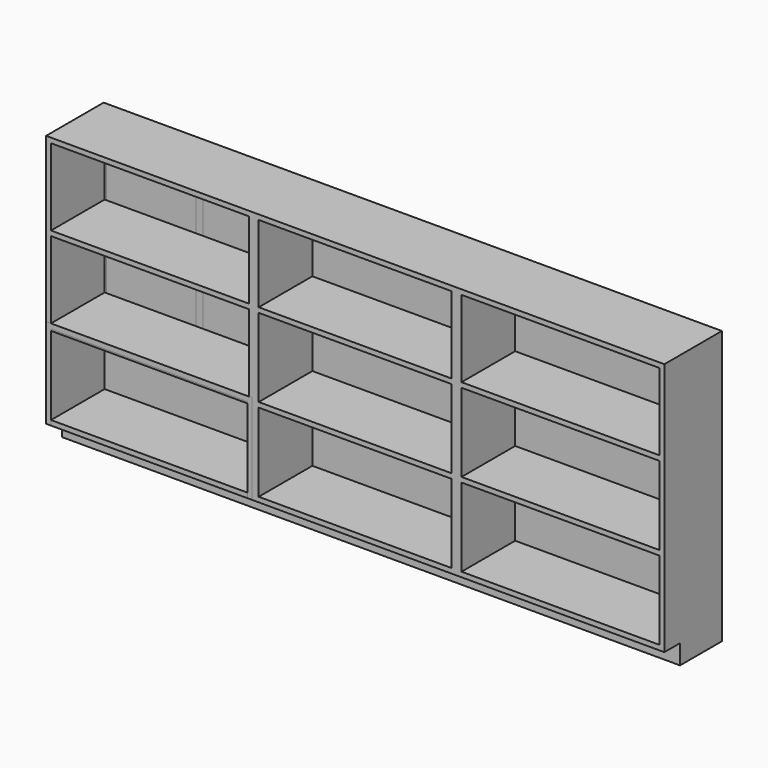
from build123d import *

# Parameters (mm, degrees)
F0_W      = 2400.3
F0_H      = 984.25
F1_DEPTH  = 279.4
F2_T      = -19.05
F3_W      = 2400.3
F3_H      = 203.2
F4_DEPTH  = 76.2
F5_W      = 400.05
F5_H      = 971.55
F6_DEPTH  = 19.05
F7_W      = 349.25
F7_H      = 920.75
F8_DEPTH  = 6.35
F9_W      = 38.1
F9_H      = 298.45
F9_H_2    = 19.05
F9_W_2    = 768.35
F9_W_3    = 749.3
F9_H_3    = 304.8
F10_DEPTH = 260.35
F11_W     = 749.3
F11_H     = 260.35
F12_DEPTH = 19.05
F13_W     = 800.1
F13_H     = 349.25
F14_DEPTH = 279.4
F15_T     = -19.05


with BuildPart() as f1:
    # F0 (on Front) → F1 (new body)
    with BuildSketch(Plane.XZ):
        with Locations((1200.15, 492.125)):
            Rectangle(F0_W, F0_H)
    extrude(amount=F1_DEPTH)

    # F2
    f2_openings = [f1.faces().sort_by_distance(p)[0] for p in [
        (1200.15, -279.4, 492.125),
    ]]
    offset(amount=F2_T, openings=f2_openings)

    # F3 (on face) → F4 (join)
    with BuildSketch(Plane(origin=(0, 0, 0), x_dir=(1, 0, 0), z_dir=(0, 0, -1))):
        with Locations((1200.15, 101.6)):
            Rectangle(F3_W, F3_H)
    extrude(amount=F4_DEPTH)

    # F9 (on face) → F10 (join, through all)
    with BuildSketch(Plane.XZ.offset(19.05)):
        with Locations((806.45, 815.975)):
            Rectangle(F9_W, F9_H)
        with Locations((806.45, 657.225)):
            Rectangle(F9_W, F9_H_2)
        with Locations((403.225, 657.225)):
            Rectangle(F9_W_2, F9_H_2)
        with Locations((1200.15, 657.225)):
            Rectangle(F9_W_3, F9_H_2)
        with Locations((806.45, 495.3)):
            Rectangle(F9_W, F9_H_3)
        with Locations((1593.85, 657.225)):
            Rectangle(F9_W, F9_H_2)
        with Locations((1593.85, 815.975)):
            Rectangle(F9_W, F9_H)
        with Locations((806.45, 333.375)):
            Rectangle(F9_W, F9_H_2)
        with Locations((403.225, 333.375)):
            Rectangle(F9_W_2, F9_H_2)
        with Locations((1200.15, 333.375)):
            Rectangle(F9_W_3, F9_H_2)
        with Locations((1593.85, 495.3)):
            Rectangle(F9_W, F9_H_3)
        with Locations((1997.075, 657.225)):
            Rectangle(F9_W_2, F9_H_2)
        with Locations((806.45, 171.45)):
            Rectangle(F9_W, F9_H_3)
        with Locations((1593.85, 333.375)):
            Rectangle(F9_W, F9_H_2)
        with Locations((1593.85, 171.45)):
            Rectangle(F9_W, F9_H_3)
        with Locations((1997.075, 333.375)):
            Rectangle(F9_W_2, F9_H_2)
    extrude(amount=F10_DEPTH)


with BuildPart() as f6:
    # F5 (on Front) → F6 (new body)
    with BuildSketch(Plane.XZ):
        with Locations((200.025, 485.775)):
            Rectangle(F5_W, F5_H)
    extrude(amount=F6_DEPTH)

    # F7 (on face) → F8 (cut)
    with BuildSketch(Plane.XZ.offset(19.05)):
        with Locations((200.025, 485.775)):
            Rectangle(F7_W, F7_H)
    extrude(amount=-F8_DEPTH, mode=Mode.SUBTRACT)


with BuildPart() as f12:
    # F11 (on Top) → F12 (new body)
    with BuildSketch(Plane.XY):
        with Locations((374.65, 130.175)):
            Rectangle(F11_W, F11_H)
    extrude(amount=F12_DEPTH)


with BuildPart() as f14:
    # F13 (on Front) → F14 (new body)
    with BuildSketch(Plane.XZ):
        with Locations((400.05, 174.625)):
            Rectangle(F13_W, F13_H)
    extrude(amount=F14_DEPTH)

    # F15
    f15_openings = [f14.faces().sort_by_distance(p)[0] for p in [
        (400.05, -279.4, 174.625),
        (400.05, -139.7, 0),
    ]]
    offset(amount=F15_T, openings=f15_openings)


solid = Compound([f1.part, f6.part, f12.part, f14.part])
